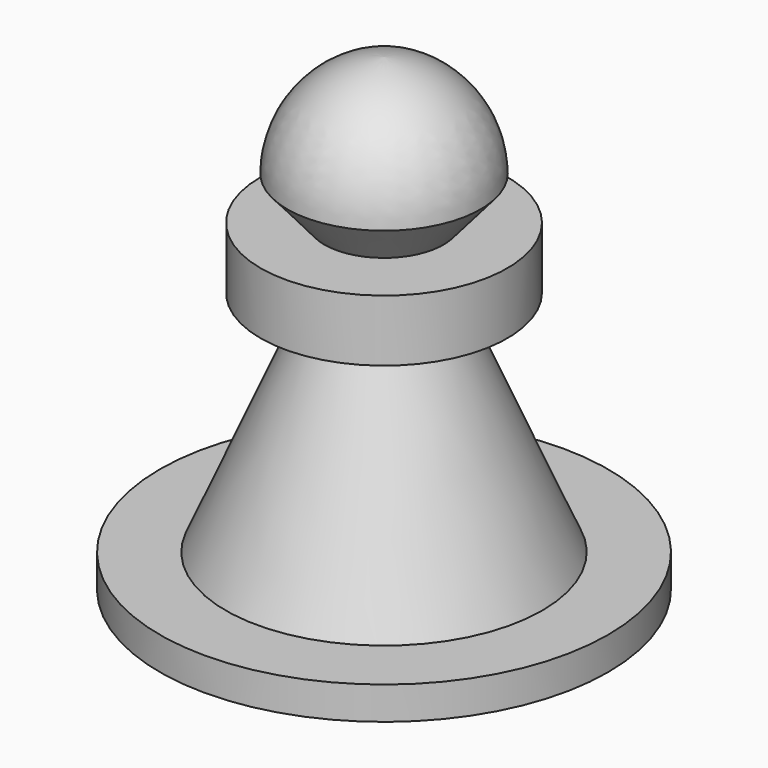
from build123d import *

# Parameters (mm, degrees)
F2_T = -2.54


with BuildPart() as f1:
    # F0 (on Front) → F1 (revolve)
    with BuildSketch(Plane.XZ):
        with BuildLine():
            Line((-25.3520067781, 0), (0, 0))
            Line((0, 0), (0, 53.0298873782))
            ThreePointArc((0, 53.0298873782), (-7.7262978019, 49.3400747786), (-10.9315989539, 41.4005257189))
            Line((-10.9315989539, 41.4005257189), (-6.7450297065, 36.5161933005))
            Line((-6.7450297065, 36.5161933005), (-13.9552326873, 36.5161933005))
            Line((-13.9552326873, 36.5161933005), (-13.9552326873, 29.5385755599))
            Line((-13.9552326873, 29.5385755599), (-6.7450297065, 29.5385755599))
            Line((-6.7450297065, 29.5385755599), (-17.9092157632, 3.7213952746))
            Line((-17.9092157632, 3.7213952746), (-25.3520067781, 3.7213952746))
            Line((-25.3520067781, 3.7213952746), (-25.3520067781, 0))
        make_face()
    revolve(axis=Axis((0, 0, 26.5149436891), (0, 0, 1)))

    # F2
    f2_openings = [f1.faces().sort_by_distance(p)[0] for p in [
        (0, 0, 0),
    ]]
    offset(amount=F2_T, openings=f2_openings, kind=Kind.INTERSECTION)


solid = f1.part
